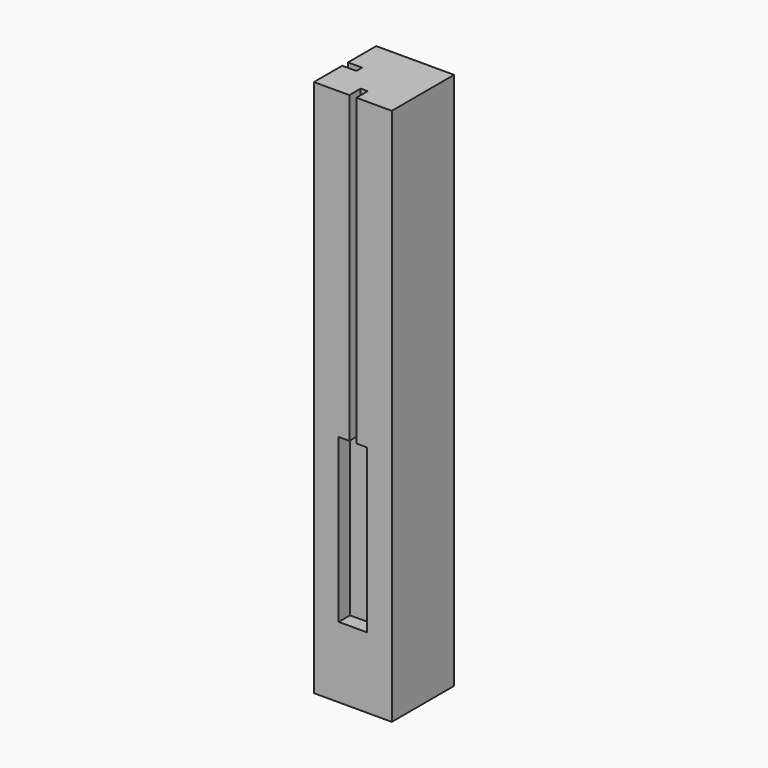
from build123d import *

# Parameters (mm, degrees)
SKETCH_W                = 55
SKETCH_H                = 55
PAD_DEPTH               = 380
POCKET_DEPTH            = 10
POLARPATTERN_COUNT      = 2
POLARPATTERN_ANGLE      = 90
BODY003_PLACEMENT_ANGLE = 180


with BuildPart() as part:
    # Sketch → Pad (new body)
    with BuildSketch(Plane.XY):
        Rectangle(SKETCH_W, SKETCH_H)
    extrude(amount=PAD_DEPTH)

    # Sketch001 (on DatumPlane) → Pocket (cut)
    with BuildSketch(Plane.YZ.offset(27.5)):
        Polygon((-10, 165), (-2.5, 165), (-2.5, 510), (2.5, 510), (2.5, 165), (10, 165), (10, 50), (-10, 50), align=None)
    pocket = extrude(amount=-POCKET_DEPTH, mode=Mode.SUBTRACT)

    # PolarPattern: Pocket ×2 about axis
    polarpattern_axis = Axis((0, 0, 0), (0, 0, 1))
    for i in range(1, POLARPATTERN_COUNT):
        add(pocket.rotate(polarpattern_axis, i * POLARPATTERN_ANGLE / (POLARPATTERN_COUNT - 1)), mode=Mode.SUBTRACT)


with BuildPart() as part_1:
    # Body placement: moved
    add(part.part.moved(Location((-10, 0, 0))))


with BuildPart() as part_2:
    # Clone002 placement: moved
    add(part_1.part.moved(Location((10, 0, 0))))


with BuildPart() as part_3:
    # Body003 placement: moved
    add(part_2.part.moved(Location((900, 795, 0))).rotate(Axis((900, 795, 0), (0, 0, 1)), BODY003_PLACEMENT_ANGLE))


solid = part_3.part
